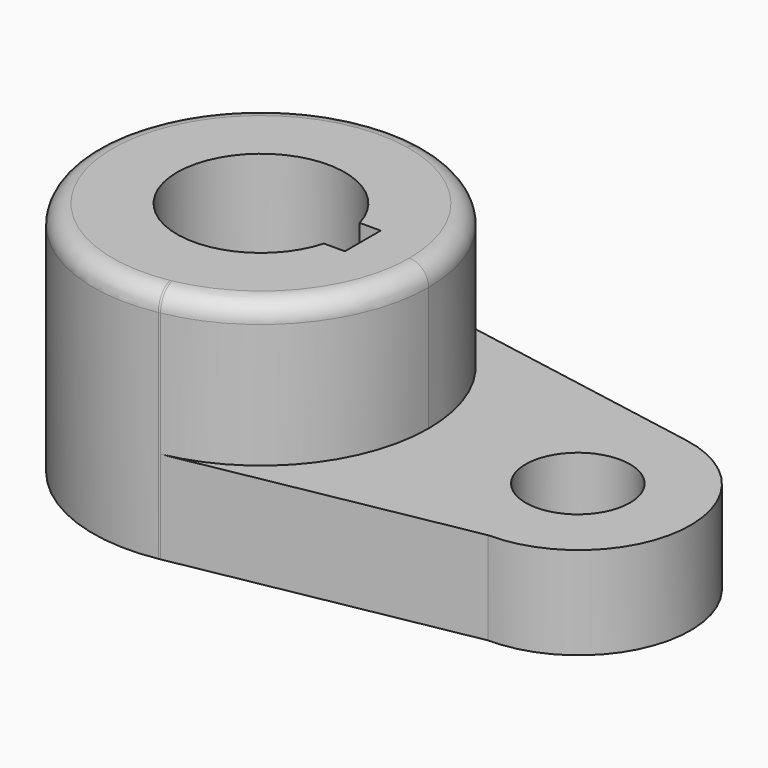
from build123d import *

# Parameters (mm, degrees)
F0_R     = 14.2875
F0_R_2   = 8.89
F1_DEPTH = 15.7734
F2_DEPTH = 40.2336
F4_DEPTH = 40.2346
F5_R     = 3.302


with BuildPart() as f1:
    # F0 (on Top) → F1 (new body)
    with BuildSketch(Plane.XY):
        with BuildLine():
            ThreePointArc((5.362369, -28.067341), (22.019995, -18.211273), (28.575, 0))
            ThreePointArc((28.575, 0), (22.13622, 18.06982), (5.721568, 27.996326))
            ThreePointArc((5.721568, 27.996326), (-28.572841, 0.351263), (5.031592, -28.128521))
            Line((5.031592, -28.128521), (5.362369, -28.067341))
        make_face()
        Circle(F0_R, mode=Mode.SUBTRACT)
        with BuildLine():
            ThreePointArc((5.721568, 27.996326), (22.13622, 18.06982), (28.575, 0))
            ThreePointArc((28.575, 0), (22.019995, -18.211273), (5.362369, -28.067341))
            Line((5.362369, -28.067341), (53.975, -19.075971))
            ThreePointArc((53.975, -19.075971), (73.116672, -1.798756), (57.506479, 18.725075))
            Line((57.506479, 18.725075), (5.721568, 27.996326))
        make_face()
        with Locations((53.975, 0)):
            Circle(F0_R_2, mode=Mode.SUBTRACT)
    extrude(amount=F1_DEPTH)

    # F0 (on Top) → F2 (join)
    with BuildSketch(Plane.XY):
        with BuildLine():
            ThreePointArc((5.362369, -28.067341), (22.019995, -18.211273), (28.575, 0))
            ThreePointArc((28.575, 0), (22.13622, 18.06982), (5.721568, 27.996326))
            ThreePointArc((5.721568, 27.996326), (-28.572841, 0.351263), (5.031592, -28.128521))
            Line((5.031592, -28.128521), (5.362369, -28.067341))
        make_face()
        Circle(F0_R, mode=Mode.SUBTRACT)
    extrude(amount=F2_DEPTH)

    # F3 (on face) → F4 (cut, through all)
    with BuildSketch(Plane.XY):
        with BuildLine():
            Line((17.348139, 3.81), (13.770133, 3.81))
            ThreePointArc((13.770133, 3.81), (14.157567, 1.922483), (14.2875, 0))
            ThreePointArc((14.2875, 0), (14.157567, -1.922483), (13.770133, -3.81))
            Line((13.770133, -3.81), (17.348139, -3.81))
            Line((17.348139, -3.81), (17.348139, 3.81))
        make_face()
    extrude(amount=F4_DEPTH, mode=Mode.SUBTRACT)

    # F5
    f5_edges = [f1.edges().sort_by_distance(p)[0] for p in [
        (-5.19707, 28.098418, 40.2336),
    ]]
    fillet(f5_edges, radius=F5_R)


solid = f1.part
